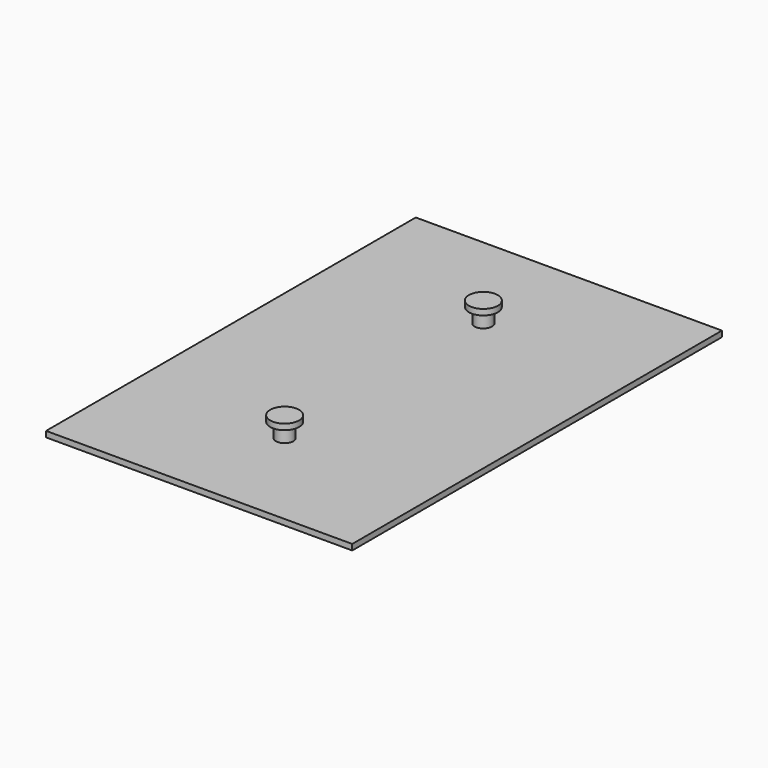
from build123d import *

# Parameters (mm, degrees)
SKETCH_W     = 53
SKETCH_H     = 80
PAD_DEPTH    = 1
SKETCH001_R  = 1.5
PAD001_DEPTH = 2.5
SKETCH002_R  = 2.5
PAD002_DEPTH = 1


with BuildPart() as part:
    # Sketch → Pad (new body)
    with BuildSketch(Plane.XY):
        Rectangle(SKETCH_W, SKETCH_H)
    extrude(amount=PAD_DEPTH)

    # Sketch001 (on Face6 of Pad) → Pad001 (join)
    with BuildSketch(Plane.XY.offset(1)):
        with Locations((0, 21.5)):
            Circle(SKETCH001_R)
        with Locations((0, -21.5)):
            Circle(SKETCH001_R)
    extrude(amount=PAD001_DEPTH)

    # Sketch002 (on Face9 of Pad001) → Pad002 (join)
    with BuildSketch(Plane.XY.offset(3.5)):
        with Locations((0, 21.5)):
            Circle(SKETCH002_R)
        with Locations((0, -21.5)):
            Circle(SKETCH002_R)
    extrude(amount=PAD002_DEPTH)


solid = part.part
